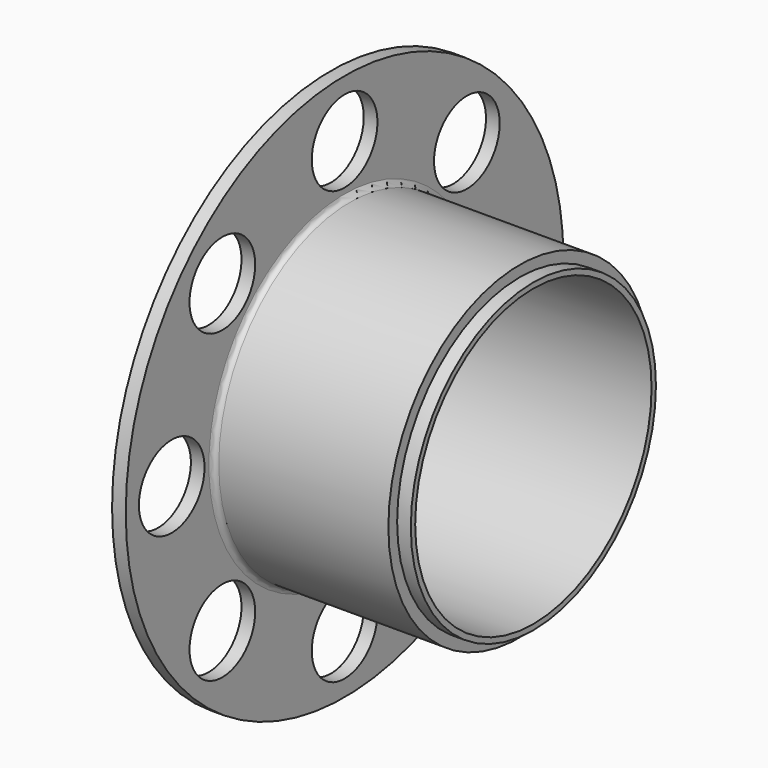
from build123d import *

# Parameters (mm, degrees)
F2_R     = 7.5
F3_DEPTH = 5
F4_R     = 55
F4_R_2   = 28
F5_DEPTH = 2.5
F6_R     = 1


with BuildPart() as f1:
    # F0 (on Top) → F1 (revolve)
    with BuildSketch(Plane.XY):
        Polygon((-37, 27), (0, 27), (0, 50), (-2.5, 50), (-2.5, 30), (-34.5, 30), (-34.5, 50), (-37, 50), align=None)
    revolve(axis=Axis((5.071359, 0, 0), (1, 0, 0)))

    # F2 (on face) → F3 (cut)
    with BuildSketch(Plane(origin=(-37, 0, 0), x_dir=(0, -1, 0), z_dir=(-1, 0, 0))):
        with Locations((0, 39.5)):
            Circle(F2_R)
        with Locations((-27.930718, 27.930718)):
            Circle(F2_R)
        with Locations((-39.5, 0)):
            Circle(F2_R)
        with Locations((-27.930718, -27.930718)):
            Circle(F2_R)
        with Locations((0, -39.5)):
            Circle(F2_R)
        with Locations((27.930718, -27.930718)):
            Circle(F2_R)
        with Locations((39.5, 0)):
            Circle(F2_R)
        with Locations((27.930718, 27.930718)):
            Circle(F2_R)
    extrude(amount=-F3_DEPTH, mode=Mode.SUBTRACT)

    # F4 (on face) → F5 (cut)
    with BuildSketch(Plane.YZ):
        Circle(F4_R)
        Circle(F4_R_2, mode=Mode.SUBTRACT)
    extrude(amount=-F5_DEPTH, mode=Mode.SUBTRACT)

    # F6
    f6_edges = [f1.edges().sort_by_distance(p)[0] for p in [
        (-34.5, -30, 0),
    ]]
    fillet(f6_edges, radius=F6_R)


solid = f1.part
